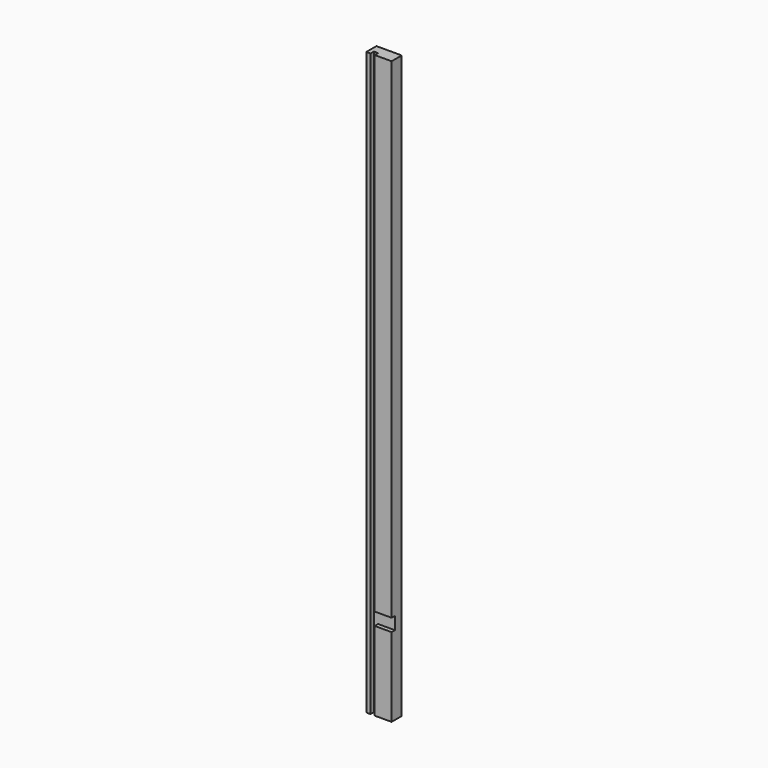
from build123d import *

# Parameters (mm, degrees)
F0_W     = 38.1
F0_H     = 438.15
F1_DEPTH = 9.525
F2_W     = 6.35
F2_H     = 876.3
F3_DEPTH = 6.35
F5_W     = 25.4
F5_H     = 19.05
F6_DEPTH = 6.35


with BuildPart() as f1:
    # F0 (on Front) → F1 (new body, symmetric)
    with BuildSketch(Plane.XZ):
        with Locations((-12.9539953259, 219.075)):
            Rectangle(F0_W, F0_H)
        with Locations((-12.9539953259, -219.075)):
            Rectangle(F0_W, F0_H)
    extrude(amount=F1_DEPTH, both=True)

    # F2 (on face) → F3 (cut)
    with BuildSketch(Plane.XZ.offset(9.525)):
        with Locations((-22.4789953259, 0)):
            Rectangle(F2_W, F2_H)
    extrude(amount=-F3_DEPTH, mode=Mode.SUBTRACT)

    # F5 (on face) → F6 (cut)
    with BuildSketch(Plane.XZ.offset(9.525)):
        with Locations((-6.6039953259, -309.5625)):
            Rectangle(F5_W, F5_H)
    extrude(amount=-F6_DEPTH, mode=Mode.SUBTRACT)


solid = f1.part
